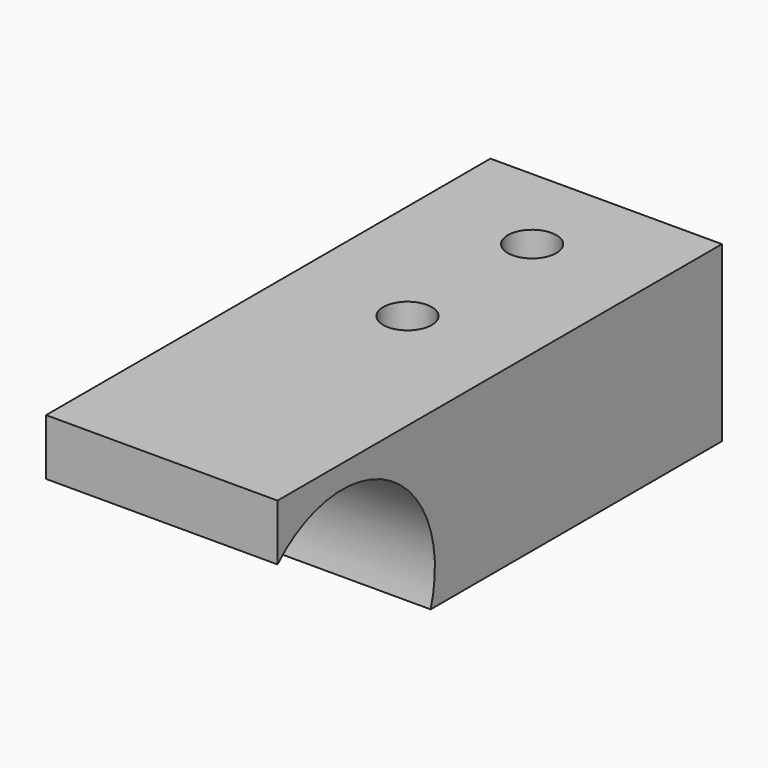
from build123d import *

# Parameters (mm, degrees)
F0_W     = 20
F0_H     = 48
F1_DEPTH = 15
F2_R     = 10
F3_DEPTH = 25
F4_R     = 2.1
F5_DEPTH = 25


with BuildPart() as f1:
    # F0 (on Top) → F1 (new body)
    with BuildSketch(Plane.XY):
        with Locations((-13.931248, 14.507082)):
            Rectangle(F0_W, F0_H)
    extrude(amount=F1_DEPTH)

    # F2 (on Right) → F3 (cut)
    with BuildSketch(Plane.YZ):
        with Locations((-2.492918, 3)):
            Circle(F2_R)
    extrude(amount=-F3_DEPTH, mode=Mode.SUBTRACT)

    # F4 (on face) → F5 (cut)
    with BuildSketch(Plane(origin=(0, 0, 0), x_dir=(1, 0, 0), z_dir=(0, 0, -1))):
        with Locations((-13.931248, -30.507082)):
            Circle(F4_R)
        with Locations((-13.931248, -17.046474)):
            Circle(F4_R)
    extrude(amount=-F5_DEPTH, mode=Mode.SUBTRACT)


solid = f1.part
